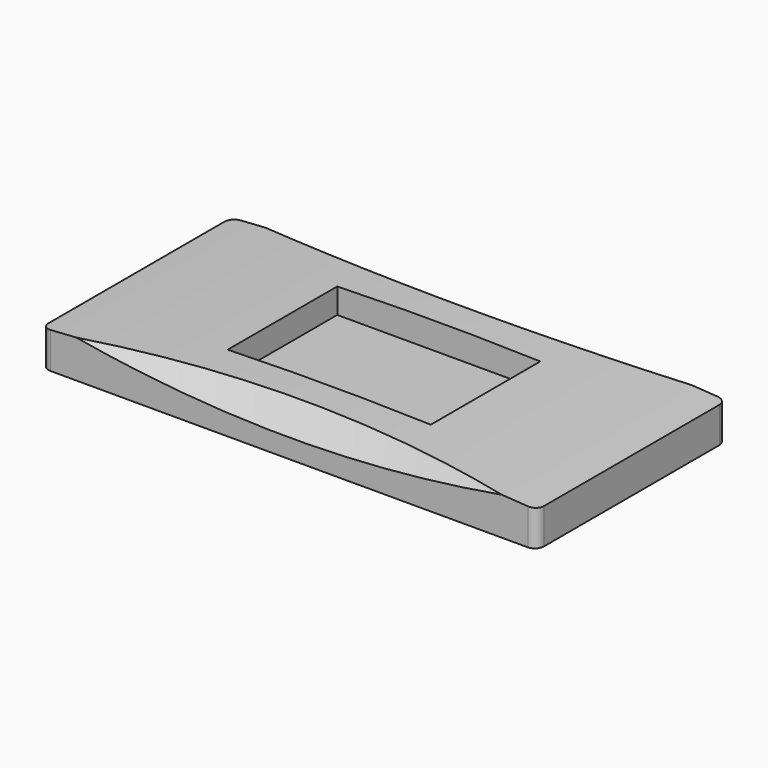
from build123d import *

# Parameters (mm, degrees)
SKETCH_W           = 27.75
SKETCH_H           = 13.3
PAD_DEPTH          = 1
PAD001_DEPTH       = 1.5
PAD002_START       = -0.5
SKETCH002_W        = 47.75
SKETCH002_H        = 33.3
PAD002_DEPTH       = 0.5
CHAMFER_SIZE2      = 1.49
CHAMFER_SIZE       = 1.05
CHAMFER_FACE13_W   = 33.3
CHAMFER_FACE13_H   = 47.75
CHAMFER_FACE13_W_2 = 13.3
CHAMFER_FACE13_H_2 = 27.75
POCKET_DEPTH       = 5
POCKET001_DEPTH    = 30
FILLET_R           = 0.5
SKETCH004_W        = 11.377
SKETCH004_H        = 7.673
POCKET002_DEPTH    = 1.5


with BuildPart() as part:
    # Sketch → Pad (new body)
    with BuildSketch(Plane.XY):
        with Locations((13.875, 6.65)):
            Rectangle(SKETCH_W, SKETCH_H)
    extrude(amount=PAD_DEPTH)

    # Sketch001 (on Face6 of Pad) → Pad001 (join)
    with BuildSketch(Plane.XY.offset(1)):
        with BuildLine():
            ThreePointArc((0, 13.3), (13.875, 12.3), (27.75, 13.3))
            Line((27.75, 0), (27.75, 13.3))
            ThreePointArc((27.75, 0), (13.875, 1), (0, 0))
            Line((0, 13.3), (0, 0))
        make_face()
    extrude(amount=PAD001_DEPTH)

    # Sketch002 (on Face4 of Pad001) → Pad002 (join)
    with BuildSketch(Plane(origin=(0, 0, 0), x_dir=(1, 0, 0), z_dir=(0, 0, -1)).offset(PAD002_START)):
        with Locations((13.875, -6.65)):
            Rectangle(SKETCH002_W, SKETCH002_H)
    extrude(amount=-PAD002_DEPTH)

    # Chamfer
    chamfer_edges = [part.edges().sort_by_distance(p)[0] for p in [
        (13.875, 12.3, 1),
        (13.875, 1, 1),
    ]]
    chamfer_side = part.faces().sort_by_distance((13.875, -9.417853, 1))[0]
    chamfer(chamfer_edges, length=CHAMFER_SIZE, length2=CHAMFER_SIZE2, reference=chamfer_side)

    # Chamfer Face13 → Pocket (cut)
    with BuildSketch(Plane(origin=(13.875, 6.65, 0.5), x_dir=(0, -1, 0), z_dir=(0, 0, -1))):
        Rectangle(CHAMFER_FACE13_W, CHAMFER_FACE13_H)
        Rectangle(CHAMFER_FACE13_W_2, CHAMFER_FACE13_H_2, mode=Mode.SUBTRACT)
    extrude(amount=-POCKET_DEPTH, mode=Mode.SUBTRACT)

    # Sketch003 (on Face8 of Pocket) → Pocket001 (cut)
    with BuildSketch(Plane(origin=(0, 13.3, 0), x_dir=(-1, 0, 0), z_dir=(0, 1, 0))):
        with BuildLine():
            Line((-27.75, 2.49), (-27.75, 1.99))
            ThreePointArc((0, 1.99), (-13.875, 2.49), (-27.75, 1.99))
            Line((0, 2.49), (0, 1.99))
            Line((0, 2.99), (0, 2.49))
            Line((-27.75, 2.99), (0, 2.99))
            Line((-27.75, 2.49), (-27.75, 2.99))
        make_face()
    extrude(amount=-POCKET001_DEPTH, mode=Mode.SUBTRACT)

    # Fillet
    fillet_edges = [part.edges().sort_by_distance(p)[0] for p in [
        (27.75, 13.3, 0.995),
        (27.75, 0, 0.995),
        (0, 13.3, 0.995),
        (0, 0, 0.995),
    ]]
    fillet(fillet_edges, radius=FILLET_R)

    # Sketch004 (on Face4 of Pocket) → Pocket002 (cut)
    with BuildSketch(Plane.XY.offset(2.5)):
        with Locations((13.875, 6.65)):
            Rectangle(SKETCH004_W, SKETCH004_H)
    extrude(amount=-POCKET002_DEPTH, mode=Mode.SUBTRACT)


solid = part.part
